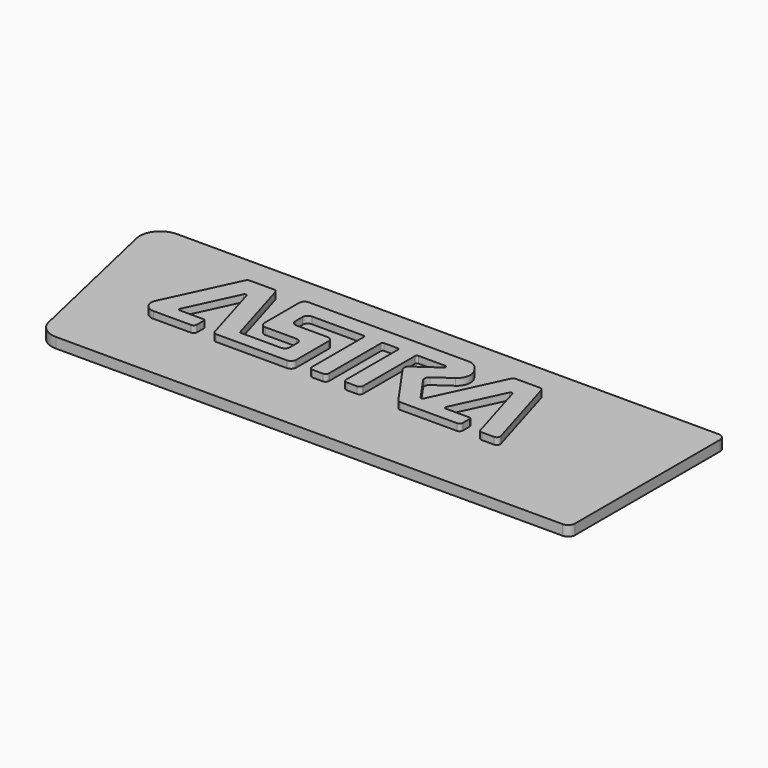
from build123d import *

# Parameters (mm, degrees)
F1_DEPTH = 3
F2_DEPTH = 5


with BuildPart() as f1:
    # F0 (on Top) → F1 (new body)
    with BuildSketch(Plane.XY):
        with BuildLine():
            Line((84.770986, 12.804396), (-73.706523, 12.804396))
            ThreePointArc((-73.706523, 12.804396), (-78.397204, 10.545721), (-79.55631, 5.470234))
            Line((-79.55631, 5.470234), (-69.293152, -39.529766))
            ThreePointArc((-69.293152, -39.529766), (-67.18469, -42.886285), (-63.443365, -44.195604))
            Line((-63.443365, -44.195604), (84.770986, -44.195604))
            ThreePointArc((84.770986, -44.195604), (86.1852, -43.609817), (86.770986, -42.195604))
            Line((86.770986, -42.195604), (86.770986, 10.804396))
            ThreePointArc((86.770986, 10.804396), (86.1852, 12.21861), (84.770986, 12.804396))
        make_face()
        with BuildLine():
            ThreePointArc((-51.704852, -23.276883), (-54.235863, -21.887469), (-54.422458, -19.006208))
            Line((-54.422458, -19.006208), (-44.765755, 1.646675))
            ThreePointArc((-44.765755, 1.646675), (-44.396748, 2.066787), (-43.859886, 2.223117))
            Line((-43.859886, 2.223117), (-36.780495, 2.223117))
            ThreePointArc((-36.780495, 2.223117), (-36.182648, 2.024727), (-35.822015, 1.508276))
            Line((-35.822015, 1.508276), (-29.744515, -18.919463))
            ThreePointArc((-29.744515, -18.919463), (-29.564199, -19.177689), (-29.265275, -19.276883))
            Line((-29.265275, -19.276883), (-17.611612, -19.276883))
            ThreePointArc((-17.611612, -19.276883), (-16.550951, -18.837544), (-16.111612, -17.776883))
            Line((-16.111612, -17.776883), (-16.111612, -15.076883))
            ThreePointArc((-16.111612, -15.076883), (-16.550951, -14.016223), (-17.611612, -13.576883))
            Line((-17.611612, -13.576883), (-26.706637, -13.576883))
            ThreePointArc((-26.706637, -13.576883), (-27.767297, -13.137544), (-28.206637, -12.076883))
            Line((-28.206637, -12.076883), (-28.206637, 0.723117))
            ThreePointArc((-28.206637, 0.723117), (-27.767297, 1.783777), (-26.706637, 2.223117))
            Line((-26.706637, 2.223117), (19.964748, 2.223117))
            ThreePointArc((19.964748, 2.223117), (21.83444, 1.759252), (23.27049, 0.475242))
            Line((23.27049, 0.475242), (23.946029, -0.516336))
            ThreePointArc((23.946029, -0.516336), (24.574778, -3.489419), (22.9327, -6.046394))
            Line((22.9327, -6.046394), (18.134728, -9.401842))
            ThreePointArc((18.134728, -9.401842), (17.517407, -10.369258), (17.764597, -11.489918))
            Line((17.764597, -11.489918), (22.703174, -18.561448))
            ThreePointArc((22.703174, -18.561448), (23.156561, -18.778873), (23.569687, -18.492236))
            Line((23.569687, -18.492236), (32.985871, 1.646668))
            ThreePointArc((32.985871, 1.646668), (33.354878, 2.066785), (33.891743, 2.223117))
            Line((33.891743, 2.223117), (40.97149, 2.223117))
            ThreePointArc((40.97149, 2.223117), (41.569388, 2.024689), (41.930007, 1.508153))
            Line((41.930007, 1.508153), (48.918247, -21.991847))
            ThreePointArc((48.918247, -21.991847), (48.761303, -22.874781), (47.95973, -23.276883))
            Line((47.95973, -23.276883), (44.38307, -23.276883))
            ThreePointArc((44.38307, -23.276883), (43.785172, -23.078456), (43.424553, -22.561919))
            Line((43.424553, -22.561919), (37.916023, -4.037877))
            ThreePointArc((37.916023, -4.037877), (37.47381, -3.681769), (36.983828, -3.968619))
            Line((36.983828, -3.968619), (30.159066, -18.565108))
            ThreePointArc((30.159066, -18.565108), (30.190168, -19.045316), (30.612002, -19.276883))
            Line((30.612002, -19.276883), (37.563267, -19.276883))
            ThreePointArc((37.563267, -19.276883), (37.91682, -19.42333), (38.063267, -19.776883))
            Line((38.063267, -19.776883), (38.063267, -22.276883))
            ThreePointArc((38.063267, -22.276883), (37.770374, -22.98399), (37.063267, -23.276883))
            Line((37.063267, -23.276883), (20.419043, -23.276883))
            ThreePointArc((20.419043, -23.276883), (19.956748, -23.16361), (19.599185, -22.849451))
            Line((19.599185, -22.849451), (10.802471, -10.253469))
            ThreePointArc((10.802471, -10.253469), (10.555368, -9.132327), (11.173406, -8.164831))
            Line((11.173406, -8.164831), (17.585465, -3.686812))
            ThreePointArc((17.585465, -3.686812), (17.776132, -3.126824), (17.299181, -2.776883))
            Line((17.299181, -2.776883), (9.388388, -2.776883))
            ThreePointArc((9.388388, -2.776883), (9.034835, -2.92333), (8.888388, -3.276883))
            Line((8.888388, -3.276883), (8.888388, -22.276883))
            ThreePointArc((8.888388, -22.276883), (8.595495, -22.98399), (7.888388, -23.276883))
            Line((7.888388, -23.276883), (4.888388, -23.276883))
            ThreePointArc((4.888388, -23.276883), (4.181282, -22.98399), (3.888388, -22.276883))
            Line((3.888388, -22.276883), (3.888388, -3.276883))
            ThreePointArc((3.888388, -3.276883), (3.741942, -2.92333), (3.388388, -2.776883))
            Line((3.388388, -2.776883), (-0.611612, -2.776883))
            ThreePointArc((-0.611612, -2.776883), (-0.965165, -2.92333), (-1.111612, -3.276883))
            Line((-1.111612, -3.276883), (-1.111612, -22.276883))
            ThreePointArc((-1.111612, -22.276883), (-1.404505, -22.98399), (-2.111612, -23.276883))
            Line((-2.111612, -23.276883), (-5.111612, -23.276883))
            ThreePointArc((-5.111612, -23.276883), (-5.818718, -22.98399), (-6.111612, -22.276883))
            Line((-6.111612, -22.276883), (-6.111612, -3.276883))
            ThreePointArc((-6.111612, -3.276883), (-6.258058, -2.92333), (-6.611612, -2.776883))
            Line((-6.611612, -2.776883), (-21.706637, -2.776883))
            ThreePointArc((-21.706637, -2.776883), (-22.767297, -3.216223), (-23.206637, -4.276883))
            Line((-23.206637, -4.276883), (-23.206637, -6.976883))
            ThreePointArc((-23.206637, -6.976883), (-22.767297, -8.037544), (-21.706637, -8.476883))
            Line((-21.706637, -8.476883), (-12.611612, -8.476883))
            ThreePointArc((-12.611612, -8.476883), (-11.550951, -8.916223), (-11.111612, -9.976883))
            Line((-11.111612, -9.976883), (-11.111612, -21.776883))
            ThreePointArc((-11.111612, -21.776883), (-11.550951, -22.837544), (-12.611612, -23.276883))
            Line((-12.611612, -23.276883), (-33.365805, -23.276883))
            ThreePointArc((-33.365805, -23.276883), (-33.963652, -23.078494), (-34.324285, -22.562043))
            Line((-34.324285, -22.562043), (-39.83554, -4.037569))
            ThreePointArc((-39.83554, -4.037569), (-40.277765, -3.681521), (-40.767714, -3.96837))
            Line((-40.767714, -3.96837), (-47.592734, -18.565104))
            ThreePointArc((-47.592734, -18.565104), (-47.561635, -19.045314), (-47.1398, -19.276883))
            Line((-47.1398, -19.276883), (-40.188535, -19.276883))
            ThreePointArc((-40.188535, -19.276883), (-39.834982, -19.42333), (-39.688535, -19.776883))
            Line((-39.688535, -19.776883), (-39.688535, -22.276883))
            ThreePointArc((-39.688535, -22.276883), (-39.981428, -22.98399), (-40.688535, -23.276883))
            Line((-40.688535, -23.276883), (-51.704852, -23.276883))
        make_face(mode=Mode.SUBTRACT)
    extrude(amount=F1_DEPTH)

    # F0 (on Top) → F2 (join)
    with BuildSketch(Plane.XY):
        with BuildLine():
            Line((-44.765755, 1.646675), (-54.422458, -19.006208))
            ThreePointArc((-54.422458, -19.006208), (-54.235863, -21.887469), (-51.704852, -23.276883))
            Line((-51.704852, -23.276883), (-40.688535, -23.276883))
            ThreePointArc((-40.688535, -23.276883), (-39.981428, -22.98399), (-39.688535, -22.276883))
            Line((-39.688535, -22.276883), (-39.688535, -19.776883))
            ThreePointArc((-39.688535, -19.776883), (-39.834982, -19.42333), (-40.188535, -19.276883))
            Line((-40.188535, -19.276883), (-47.1398, -19.276883))
            ThreePointArc((-47.1398, -19.276883), (-47.561635, -19.045314), (-47.592734, -18.565104))
            Line((-47.592734, -18.565104), (-40.767714, -3.96837))
            ThreePointArc((-40.767714, -3.96837), (-40.277765, -3.681521), (-39.83554, -4.037569))
            Line((-39.83554, -4.037569), (-34.324285, -22.562043))
            ThreePointArc((-34.324285, -22.562043), (-33.963652, -23.078494), (-33.365805, -23.276883))
            Line((-33.365805, -23.276883), (-12.611612, -23.276883))
            ThreePointArc((-12.611612, -23.276883), (-11.550951, -22.837544), (-11.111612, -21.776883))
            Line((-11.111612, -21.776883), (-11.111612, -9.976883))
            ThreePointArc((-11.111612, -9.976883), (-11.550951, -8.916223), (-12.611612, -8.476883))
            Line((-12.611612, -8.476883), (-21.706637, -8.476883))
            ThreePointArc((-21.706637, -8.476883), (-22.767297, -8.037544), (-23.206637, -6.976883))
            Line((-23.206637, -6.976883), (-23.206637, -4.276883))
            ThreePointArc((-23.206637, -4.276883), (-22.767297, -3.216223), (-21.706637, -2.776883))
            Line((-21.706637, -2.776883), (-6.611612, -2.776883))
            ThreePointArc((-6.611612, -2.776883), (-6.258058, -2.92333), (-6.111612, -3.276883))
            Line((-6.111612, -3.276883), (-6.111612, -22.276883))
            ThreePointArc((-6.111612, -22.276883), (-5.818718, -22.98399), (-5.111612, -23.276883))
            Line((-5.111612, -23.276883), (-2.111612, -23.276883))
            ThreePointArc((-2.111612, -23.276883), (-1.404505, -22.98399), (-1.111612, -22.276883))
            Line((-1.111612, -22.276883), (-1.111612, -3.276883))
            ThreePointArc((-1.111612, -3.276883), (-0.965165, -2.92333), (-0.611612, -2.776883))
            Line((-0.611612, -2.776883), (3.388388, -2.776883))
            ThreePointArc((3.388388, -2.776883), (3.741942, -2.92333), (3.888388, -3.276883))
            Line((3.888388, -3.276883), (3.888388, -22.276883))
            ThreePointArc((3.888388, -22.276883), (4.181282, -22.98399), (4.888388, -23.276883))
            Line((4.888388, -23.276883), (7.888388, -23.276883))
            ThreePointArc((7.888388, -23.276883), (8.595495, -22.98399), (8.888388, -22.276883))
            Line((8.888388, -22.276883), (8.888388, -3.276883))
            ThreePointArc((8.888388, -3.276883), (9.034835, -2.92333), (9.388388, -2.776883))
            Line((9.388388, -2.776883), (17.299181, -2.776883))
            ThreePointArc((17.299181, -2.776883), (17.776132, -3.126824), (17.585465, -3.686812))
            Line((17.585465, -3.686812), (11.173406, -8.164831))
            ThreePointArc((11.173406, -8.164831), (10.555368, -9.132327), (10.802471, -10.253469))
            Line((10.802471, -10.253469), (19.599185, -22.849451))
            ThreePointArc((19.599185, -22.849451), (19.956748, -23.16361), (20.419043, -23.276883))
            Line((20.419043, -23.276883), (37.063267, -23.276883))
            ThreePointArc((37.063267, -23.276883), (37.770374, -22.98399), (38.063267, -22.276883))
            Line((38.063267, -22.276883), (38.063267, -19.776883))
            ThreePointArc((38.063267, -19.776883), (37.91682, -19.42333), (37.563267, -19.276883))
            Line((37.563267, -19.276883), (30.612002, -19.276883))
            ThreePointArc((30.612002, -19.276883), (30.190168, -19.045316), (30.159066, -18.565108))
            Line((30.159066, -18.565108), (36.983828, -3.968619))
            ThreePointArc((36.983828, -3.968619), (37.47381, -3.681769), (37.916023, -4.037877))
            Line((37.916023, -4.037877), (43.424553, -22.561919))
            ThreePointArc((43.424553, -22.561919), (43.785172, -23.078456), (44.38307, -23.276883))
            Line((44.38307, -23.276883), (47.95973, -23.276883))
            ThreePointArc((47.95973, -23.276883), (48.761303, -22.874781), (48.918247, -21.991847))
            Line((48.918247, -21.991847), (41.930007, 1.508153))
            ThreePointArc((41.930007, 1.508153), (41.569388, 2.024689), (40.97149, 2.223117))
            Line((40.97149, 2.223117), (33.891743, 2.223117))
            ThreePointArc((33.891743, 2.223117), (33.354878, 2.066785), (32.985871, 1.646668))
            Line((32.985871, 1.646668), (23.569687, -18.492236))
            ThreePointArc((23.569687, -18.492236), (23.156561, -18.778873), (22.703174, -18.561448))
            Line((22.703174, -18.561448), (17.764597, -11.489918))
            ThreePointArc((17.764597, -11.489918), (17.517407, -10.369258), (18.134728, -9.401842))
            Line((18.134728, -9.401842), (22.9327, -6.046394))
            ThreePointArc((22.9327, -6.046394), (24.574778, -3.489419), (23.946029, -0.516336))
            Line((23.946029, -0.516336), (23.27049, 0.475242))
            ThreePointArc((23.27049, 0.475242), (21.83444, 1.759252), (19.964748, 2.223117))
            Line((19.964748, 2.223117), (-26.706637, 2.223117))
            ThreePointArc((-26.706637, 2.223117), (-27.767297, 1.783777), (-28.206637, 0.723117))
            Line((-28.206637, 0.723117), (-28.206637, -12.076883))
            ThreePointArc((-28.206637, -12.076883), (-27.767297, -13.137544), (-26.706637, -13.576883))
            Line((-26.706637, -13.576883), (-17.611612, -13.576883))
            ThreePointArc((-17.611612, -13.576883), (-16.550951, -14.016223), (-16.111612, -15.076883))
            Line((-16.111612, -15.076883), (-16.111612, -17.776883))
            ThreePointArc((-16.111612, -17.776883), (-16.550951, -18.837544), (-17.611612, -19.276883))
            Line((-17.611612, -19.276883), (-29.265275, -19.276883))
            ThreePointArc((-29.265275, -19.276883), (-29.564199, -19.177689), (-29.744515, -18.919463))
            Line((-29.744515, -18.919463), (-35.822015, 1.508276))
            ThreePointArc((-35.822015, 1.508276), (-36.182648, 2.024727), (-36.780495, 2.223117))
            Line((-36.780495, 2.223117), (-43.859886, 2.223117))
            ThreePointArc((-43.859886, 2.223117), (-44.396748, 2.066787), (-44.765755, 1.646675))
        make_face()
    extrude(amount=F2_DEPTH)


solid = f1.part
